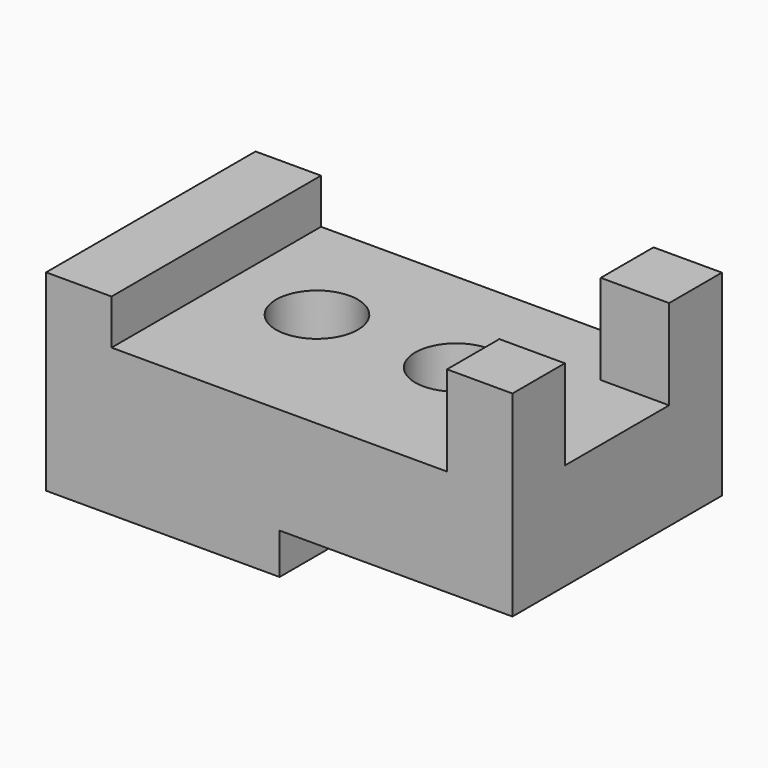
from build123d import *

# Parameters (mm, degrees)
F0_W      = 2895.6
F0_H      = 1625.6
F1_DEPTH  = 914.4
F2_W      = 1447.8
F2_H      = 406.4
F3_DEPTH  = 254
F5_DEPTH  = 254
F6_W      = 406.4
F6_H      = 406.4
F7_DEPTH  = 558.8
F8_W      = 424.684654
F8_H      = 409.779549
F9_DEPTH  = 558.8
F10_W     = 406.4
F10_H     = 1625.6
F11_DEPTH = 279.4
F12_R     = 254
F13_DEPTH = 706.12


with BuildPart() as f1:
    # F0 (on Top) → F1 (new body)
    with BuildSketch(Plane.XY):
        with Locations((-9.827921, -94.033281)):
            Rectangle(F0_W, F0_H)
    extrude(amount=F1_DEPTH)

    # F2 (on face) → F3 (cut)
    with BuildSketch(Plane.XY):
        with Locations((716.372308, -706.58043)):
            Rectangle(F2_W, F2_H)
    extrude(amount=F3_DEPTH, mode=Mode.SUBTRACT)

    # F4 (on Top) → F5 (cut)
    with BuildSketch(Plane.XY):
        Polygon((-7.728521, 720.654905), (-7.728521, -909.525675), (1452.226996, -902.336115), (1452.226996, 720.654905), align=None)
    extrude(amount=F5_DEPTH, mode=Mode.SUBTRACT)

    # F6 (on face) → F7 (join)
    with BuildSketch(Plane.XY.offset(914.4)):
        with Locations((1234.772079, -703.633281)):
            Rectangle(F6_W, F6_H)
    extrude(amount=F7_DEPTH)

    # F8 (on face) → F9 (join)
    with BuildSketch(Plane.XY.offset(914.4)):
        with Locations((1225.629752, 513.876945)):
            Rectangle(F8_W, F8_H)
    extrude(amount=F9_DEPTH)

    # F10 (on face) → F11 (join)
    with BuildSketch(Plane.XY.offset(914.4)):
        with Locations((-1254.427921, -94.033281)):
            Rectangle(F10_W, F10_H)
    extrude(amount=F11_DEPTH)

    # F12 (on face) → F13 (cut)
    with BuildSketch(Plane.XY.offset(914.4)):
        with Locations((-489.796069, -14.397811)):
            Circle(F12_R)
        with Locations((383.703415, -26.04447)):
            Circle(F12_R)
    extrude(amount=-F13_DEPTH, mode=Mode.SUBTRACT)


solid = f1.part
